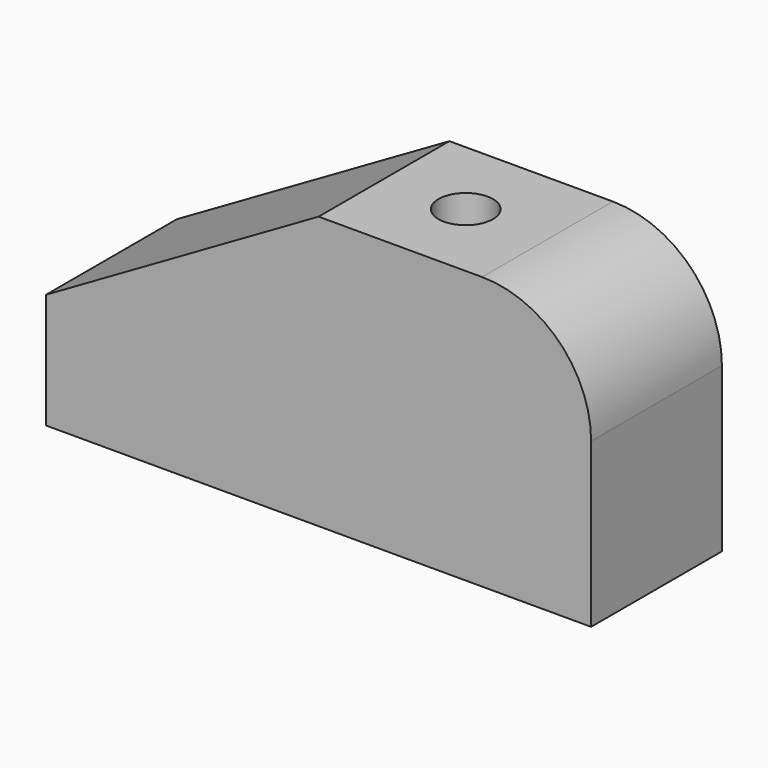
from build123d import *

# Parameters (mm, degrees)
PAD_DEPTH    = 30
SKETCH001_R  = 5
POCKET_DEPTH = 50.001


with BuildPart() as part:
    # Sketch → Pad (new body)
    with BuildSketch(Plane.XZ):
        with BuildLine():
            Line((0, 0), (0, 21.132487))
            Line((0, 21.132487), (50, 50))
            Line((50, 50), (80, 50))
            ThreePointArc((100, 30), (94.142136, 44.142136), (80, 50))
            Line((100, 0), (100, 30))
            Line((0, 0), (100, 0))
        make_face()
    extrude(amount=-PAD_DEPTH)

    # Sketch001 (on Face3 of Pad) → Pocket (cut, through all)
    with BuildSketch(Plane(origin=(0, 0, 50), x_dir=(-1, 0, 0), z_dir=(0, 0, 1))):
        with Locations((-65, -15)):
            Circle(SKETCH001_R)
    extrude(amount=-POCKET_DEPTH, mode=Mode.SUBTRACT)


solid = part.part
